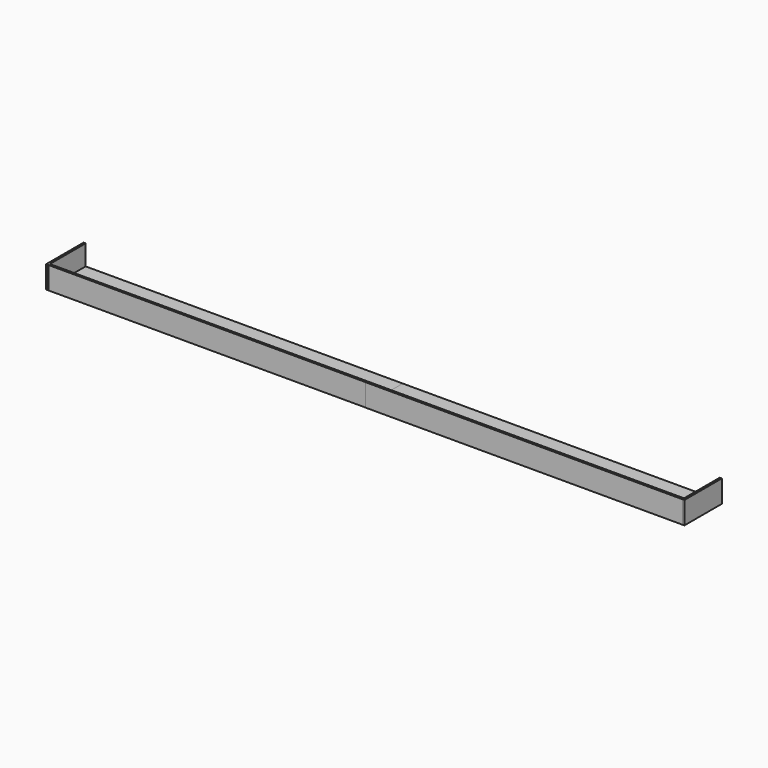
from build123d import *

# Parameters (mm, degrees)
F0_W      = 2159
F0_H      = 304.8
F1_DEPTH  = 14.3002
F2_W      = 2159
F2_H      = 304.8
F3_DEPTH  = 14.3002
F4_W      = 2159
F4_H      = 152.4
F5_DEPTH  = 13.6144
F6_W      = 2159
F6_H      = 152.4
F7_DEPTH  = 14.3002
F8_W      = 319.1002
F8_H      = 152.4
F9_DEPTH  = 14.3002
F10_W     = 319.1002
F10_H     = 152.4
F11_DEPTH = 14.3002


with BuildPart() as f1:
    # F0 (on Top) → F1 (new body)
    with BuildSketch(Plane.XY):
        with Locations((-1079.5, 152.4)):
            Rectangle(F0_W, F0_H)
    extrude(amount=F1_DEPTH)


with BuildPart() as f3:
    # F2 (on Top) → F3 (new body)
    with BuildSketch(Plane.XY):
        with Locations((1079.5, 152.4)):
            Rectangle(F2_W, F2_H)
    extrude(amount=F3_DEPTH)


with BuildPart() as f5:
    # F4 (on face) → F5 (new body)
    with BuildSketch(Plane.XZ):
        with Locations((-1079.5, 76.2)):
            Rectangle(F4_W, F4_H)
    extrude(amount=F5_DEPTH)


with BuildPart() as f7:
    # F6 (on Front) → F7 (new body)
    with BuildSketch(Plane.XZ):
        with Locations((1079.5, 76.2)):
            Rectangle(F6_W, F6_H)
    extrude(amount=F7_DEPTH)


with BuildPart() as f9:
    # F8 (on face) → F9 (new body)
    with BuildSketch(Plane(origin=(-2159, 0, 0), x_dir=(0, -1, 0), z_dir=(-1, 0, 0))):
        with Locations((-145.2499, 76.2)):
            Rectangle(F8_W, F8_H)
    extrude(amount=F9_DEPTH)


with BuildPart() as f11:
    # F10 (on face) → F11 (new body)
    with BuildSketch(Plane.YZ.offset(2159)):
        with Locations((145.2499, 76.2)):
            Rectangle(F10_W, F10_H)
    extrude(amount=F11_DEPTH)


solid = Compound([f1.part, f3.part, f5.part, f7.part, f9.part, f11.part])
